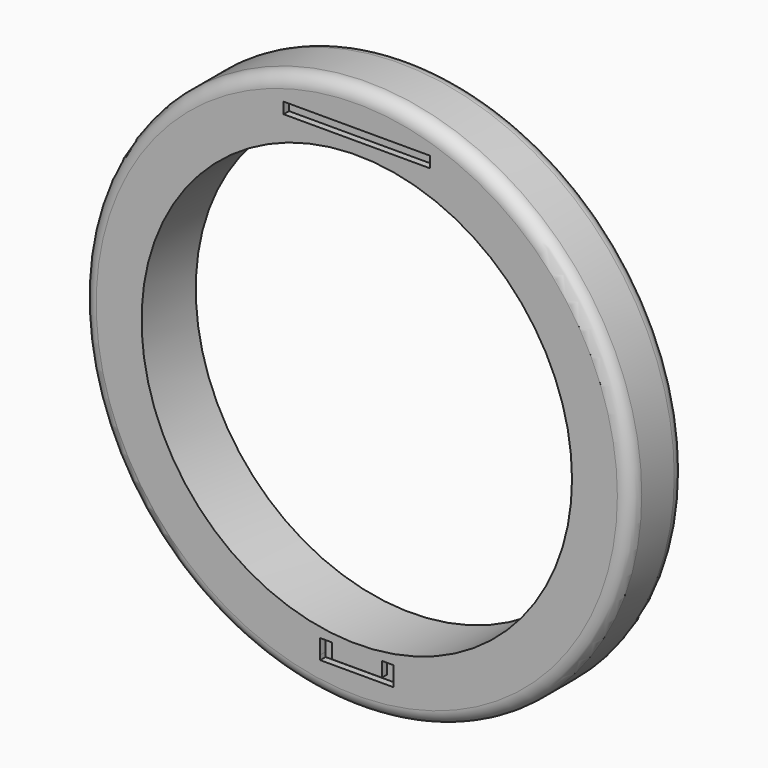
from build123d import *

# Parameters (mm, degrees)
F0_R     = 10.285065
F0_R_2   = 8.074945
F1_DEPTH = 1.27
F2_R     = 0.508
F3_R     = 0.508
F4_W     = 2.745567
F4_H     = 0.41702
F4_W_2   = 0.434395
F4_H_2   = 0.556026
F5_DEPTH = 0.254


with BuildPart() as f1:
    # F0 (on Front) → F1 (new body, symmetric)
    with BuildSketch(Plane.XZ):
        Circle(F0_R)
        Circle(F0_R_2, mode=Mode.SUBTRACT)
    extrude(amount=F1_DEPTH, both=True)

    # F2
    f2_edges = [f1.edges().sort_by_distance(p)[0] for p in [
        (-10.285065, 1.27, 0),
    ]]
    fillet(f2_edges, radius=F2_R)

    # F3
    f3_edges = [f1.edges().sort_by_distance(p)[0] for p in [
        (-10.285065, -1.27, 0),
    ]]
    fillet(f3_edges, radius=F3_R)

    # F4 (on face) → F5 (cut)
    with BuildSketch(Plane.XZ.offset(1.27)):
        with Locations((1.372783, 8.740652)):
            Rectangle(F4_W, F4_H)
        with Locations((-1.372783, 8.740652)):
            Rectangle(F4_W, F4_H)
        Polygon((0, -8.878413), (0, -9.05217), (1.372878, -9.05217), (1.372878, -8.878413), (0.938483, -8.878413), align=None)
        Polygon((-1.372878, -9.05217), (0, -9.05217), (0, -8.878413), (-0.938483, -8.878413), (-1.372878, -8.878413), align=None)
        with Locations((1.15568, -8.6004)):
            Rectangle(F4_W_2, F4_H_2)
        with Locations((-1.15568, -8.6004)):
            Rectangle(F4_W_2, F4_H_2)
    extrude(amount=-F5_DEPTH, mode=Mode.SUBTRACT)


solid = f1.part
